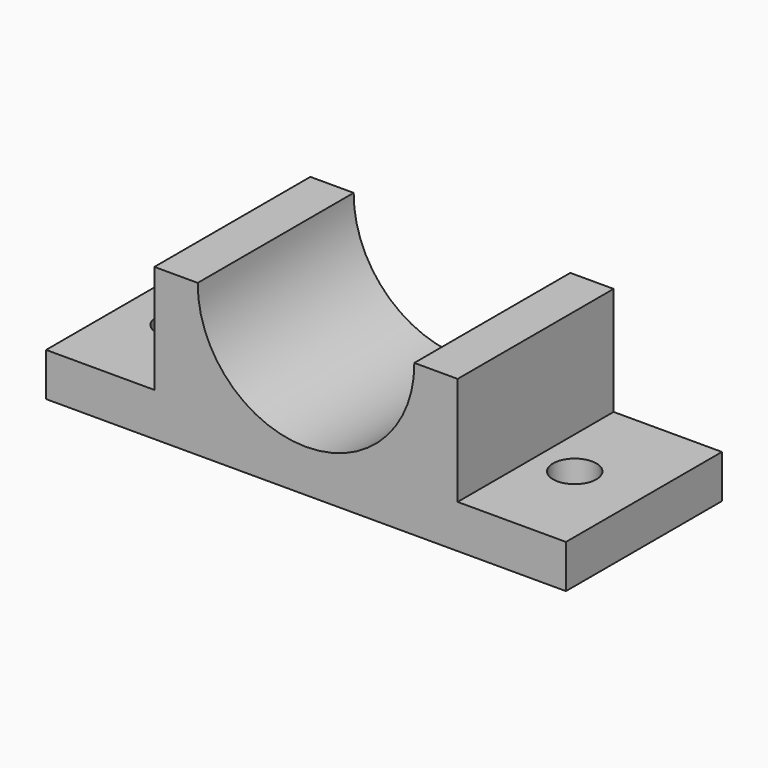
from build123d import *

# Parameters (mm, degrees)
F1_DEPTH = 22.5
F2_R     = 2.5
F3_DEPTH = 5.001
F4_R     = 2.5
F5_DEPTH = 25


with BuildPart() as f1:
    # F0 (on Front) → F1 (new body)
    with BuildSketch(Plane.XZ):
        with BuildLine():
            Line((-28.054744, -5), (31.945256, -5))
            Line((31.945256, -5), (31.945256, 0))
            Line((31.945256, 0), (19.444446, 0))
            Line((19.444446, 0), (19.444446, 12.5))
            Line((19.444446, 12.5), (14.444446, 12.5))
            ThreePointArc((14.444446, 12.5), (1.944851, -0.100626), (-10.554744, 12.5))
            Line((-10.554744, 12.5), (-15.554744, 12.5))
            Line((-15.554744, 12.5), (-15.554744, 0))
            Line((-15.554744, 0), (-28.054744, 0))
            Line((-28.054744, 0), (-28.054744, -5))
        make_face()
    extrude(amount=F1_DEPTH)

    # F2 (on face) → F3 (cut, through all)
    with BuildSketch(Plane.XY):
        with Locations((23.958334, -11.25)):
            Circle(F2_R)
    extrude(amount=-F3_DEPTH, mode=Mode.SUBTRACT)

    # F4 (on face) → F5 (cut)
    with BuildSketch(Plane.XY):
        with Locations((-21.804744, -11.25)):
            Circle(F4_R)
    extrude(amount=-F5_DEPTH, mode=Mode.SUBTRACT)


solid = f1.part
